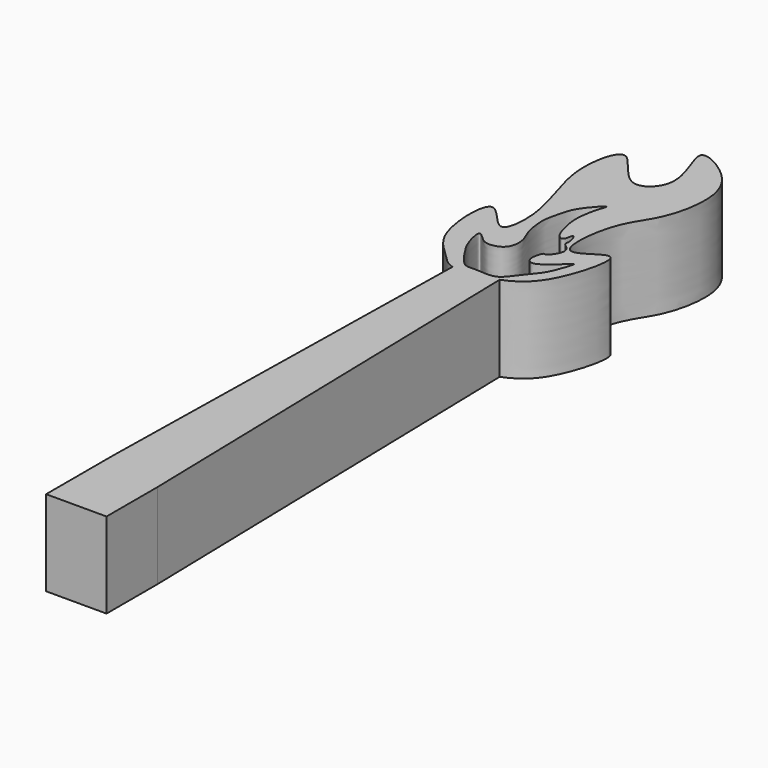
from build123d import *

# Parameters (mm, degrees)
F1_DEPTH = 10


with BuildPart() as f1:
    # F0 (on Top) → F1 (new body)
    with BuildSketch(Plane.XY):
        with BuildLine():
            add(Edge.make_bspline(
                [(-2.4467097393, 45.4602381564), (-1.1681387616, 45.1011488958), (0.8887820936, 45.5108024268), (2.5035862248, 46.1576622322)],
                knots=[0.9488344452, 0.9488344452, 0.9488344452, 0.9488344452, 1, 1, 1, 1], degree=3))
            add(Edge.make_bspline(
                [(2.5035862248, 46.1576622322), (4.17807702, 46.8284313795), (6.6728324665, 48.754673344), (9.0851898126, 58.5827448216), (2.7555572908, 52.1856527817), (3.5628448438, 61.3607207389), (6.28586413, 64.38798847), (7.6885034097, 69.3799780041), (6.964894393, 74.7050973329), (-0.6876167398, 78.9446767136), (4.328086389, 71.0798431066), (-0.3707907805, 66.8480317284), (-4.2224535878, 74.9599820996), (-6.0158499698, 68.0710739231), (-4.1471011696, 62.5061809555), (-2.7943246403, 57.6035911955), (-3.64668041, 52.7201694038), (-8.0413458324, 59.9510800684), (-7.8987385312, 49.7931725565), (-4.5759980208, 47.2686817867), (-3.3778125219, 45.7217402674), (-2.4467097393, 45.4602381564)],
                knots=[0, 0, 0, 0, 0.0530567447, 0.110387001, 0.1540689835, 0.2093481711, 0.2591836085, 0.3091053493, 0.362947478, 0.4132100032, 0.4682724137, 0.5121721509, 0.5656007249, 0.6112073571, 0.6694693889, 0.7235297461, 0.7606237414, 0.8057719778, 0.8627002405, 0.9115737915, 0.9488344452, 0.9488344452, 0.9488344452, 0.9488344452], degree=3))
        make_face()
        with BuildLine():
            add(Edge.make_bspline(
                [(1.8487228095, 46.4418944251), (2.4703061535, 46.6971216244), (3.2280492316, 48.0308911965), (4.8071165662, 49.628833356), (5.4002744225, 51.1209449081), (6.2479873943, 53.5102553528), (4.8087283151, 51.7243612394), (3.6524366521, 50.9289366773), (2.650815548, 50.4022983339), (1.8350881744, 51.1636636802), (2.3715270972, 52.9133195469), (2.7361018864, 52.4959758935), (3.737325905, 53.8767058604), (3.5578297146, 54.8553806561), (2.5717343585, 55.4166573025), (2.9256147824, 55.9185379351), (2.2224144487, 57.877386092), (2.1890177729, 55.8685671817), (1.2269517682, 56.2293453456), (0.7351988243, 57.7994146946), (0.3364720684, 59.4878806635), (0.5543948323, 61.6106310947), (0.9266625054, 62.8863900436), (1.3641187074, 64.1573542659), (-0.8302579832, 61.5392168189), (-1.1690797383, 60.4449048227), (-1.8207360282, 58.0646166091), (-1.6733411551, 56.8683059591), (-1.4859043955, 55.1713670292), (-0.5603253469, 53.6533589055), (-0.7624818789, 51.6664964734), (-2.0067547409, 51.0092780932), (-3.3374762063, 51.0071322367), (-4.0956264857, 51.8976833282), (-4.9418115747, 52.4767364646), (-4.4372034057, 50.1746898931), (-3.6230417883, 48.6799520923), (-2.3597654839, 46.96130317), (-1.6046662707, 46.2632333341), (-0.360686836, 46.4671972227), (1.206459212, 46.1781757448), (1.8487228095, 46.4418944251)],
                knots=[0, 0, 0, 0, 0.0317691669, 0.0643189403, 0.0943851697, 0.1215834603, 0.1470383711, 0.1754578515, 0.1968377358, 0.2174120431, 0.244063287, 0.2544192188, 0.280785144, 0.3024490417, 0.3231921147, 0.339767128, 0.3639616936, 0.3862641728, 0.4030521088, 0.4308423405, 0.4604581256, 0.4922275218, 0.5190704922, 0.5353804611, 0.5700941678, 0.5973936999, 0.6304858823, 0.6550963188, 0.6830241644, 0.7125016771, 0.7416925265, 0.7663454952, 0.7906263195, 0.8147151992, 0.8305917083, 0.8594340227, 0.8907155111, 0.9222634324, 0.9432382738, 0.9671738639, 1, 1, 1, 1], degree=3))
        make_face(mode=Mode.SUBTRACT)
        with BuildLine():
            Line((3.7227449914, -5.4162761049), (2.5035862248, 46.1576622322))
            add(Edge.make_bspline(
                [(-2.4467097393, 45.4602381564), (-1.1681387616, 45.1011488958), (0.8887820936, 45.5108024268), (2.5035862248, 46.1576622322)],
                knots=[0.9488344452, 0.9488344452, 0.9488344452, 0.9488344452, 1, 1, 1, 1], degree=3))
            Line((-2.4467097393, 45.4602381564), (-3.3471641462, -3.1185544266))
            Line((-3.3471641462, -3.1185544266), (-3.3471641462, -12.8396812334))
            Line((-3.3471641462, -12.8396812334), (3.7227449914, -12.8396812334))
            Line((3.7227449914, -12.8396812334), (3.7227449914, -5.4162761049))
        make_face()
    extrude(amount=F1_DEPTH)


solid = f1.part
